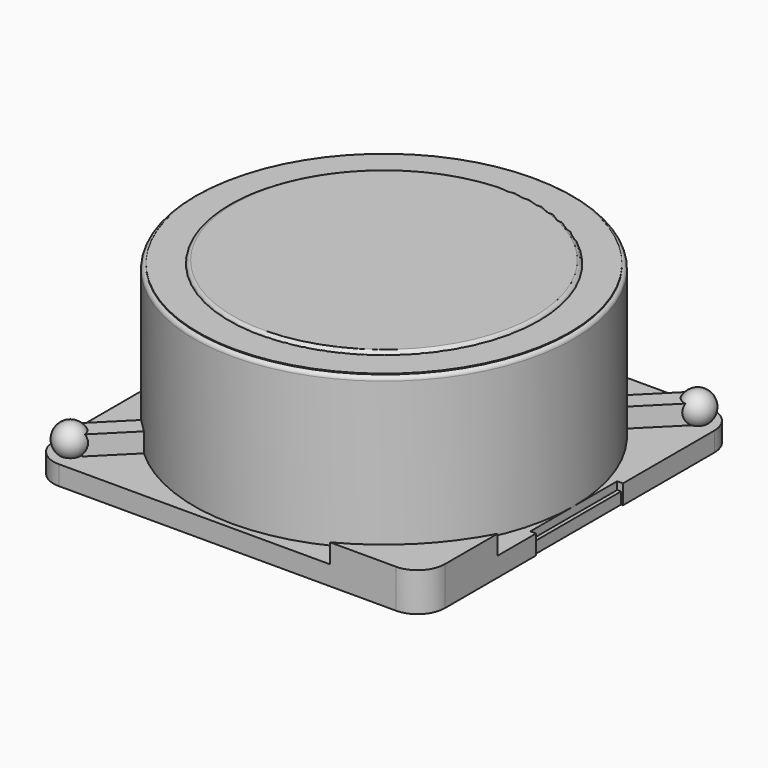
from build123d import *

# Parameters (mm, degrees)
BOX003_W               = 12.5
BOX003_H               = 0.5
BOX003_DEPTH           = 0.5
BOX003_PLACEMENT_ANGLE = 45
BOX005_W               = 0.9
BOX005_H               = 2.8
BOX005_DEPTH           = 0.3
BOX007_W               = 0.9
BOX007_H               = 2.8
BOX007_DEPTH           = 0.3
CYLINDER_R             = 4.9
CYLINDER_DEPTH         = 4.4
FILLET_R               = 0.1
CYLINDER001_R          = 4
CYLINDER001_DEPTH      = 4.5
FILLET001_R            = 0.1
CYLINDER004_R          = 4.8
CYLINDER004_DEPTH      = 0.3
BOX002_W               = 23
BOX002_H               = 6
BOX002_DEPTH           = 2
BOX002_PLACEMENT_ANGLE = 45
BOX006_W               = 0.2
BOX006_H               = 2.8
BOX006_DEPTH           = 1
BOX004_W               = 0.2
BOX004_H               = 2.8
BOX004_DEPTH           = 1
BOX001_W               = 15
BOX001_H               = 10
BOX001_DEPTH           = 5
BOX001_PLACEMENT_ANGLE = 45
CYLINDER003_R          = 5
CYLINDER003_DEPTH      = 2.4
BOX_W                  = 15
BOX_H                  = 7
BOX_DEPTH              = 5
BOX_PLACEMENT_ANGLE    = 45
CYLINDER002_R          = 5.7
CYLINDER002_DEPTH      = 2.4
PAD_DEPTH              = 1


with BuildPart() as obj1:
    # Sphere → Sphere (revolve)
    with BuildSketch(Plane(origin=(4.5, 4.5, 0.8), x_dir=(1, 0, 0), z_dir=(0, -1, 0))):
        with BuildLine():
            ThreePointArc((0, -0.4), (0.4, 0), (0, 0.4))
            Line((0, 0.4), (0, -0.4))
        make_face()
    revolve(axis=Axis((4.5, 4.5, 0.8), (0, 0, 1)))


with BuildPart() as obj2:
    # Sphere001 → Sphere001 (revolve)
    with BuildSketch(Plane(origin=(-4.5, -4.5, 0.8), x_dir=(1, 0, 0), z_dir=(0, -1, 0))):
        with BuildLine():
            ThreePointArc((0, -0.4), (0.4, 0), (0, 0.4))
            Line((0, 0.4), (0, -0.4))
        make_face()
    revolve(axis=Axis((-4.5, -4.5, 0.8), (0, 0, 1)))


with BuildPart() as kub003:
    # Box003 → Box003 (new body)
    with BuildSketch(Plane.XY):
        with Locations((6.25, 0.25)):
            Rectangle(BOX003_W, BOX003_H)
    extrude(amount=BOX003_DEPTH)


with BuildPart() as kub003_1:
    # Box003 placement: moved
    add(kub003.part.moved(Location((-4.2, -4.5, 0.5))).rotate(Axis((-4.2, -4.5, 0.5), (0, 0, 1)), BOX003_PLACEMENT_ANGLE))


with BuildPart() as kub005:
    # Box005 → Box005 (new body)
    with BuildSketch(Plane(origin=(4.1, -1.4, 0), x_dir=(1, 0, 0), z_dir=(0, 0, 1))):
        with Locations((0.45, 1.4)):
            Rectangle(BOX005_W, BOX005_H)
    extrude(amount=BOX005_DEPTH)


with BuildPart() as kub007:
    # Box007 → Box007 (new body)
    with BuildSketch(Plane(origin=(-4.95, -1.4, 0), x_dir=(1, 0, 0), z_dir=(0, 0, 1))):
        with Locations((0.45, 1.4)):
            Rectangle(BOX007_W, BOX007_H)
    extrude(amount=BOX007_DEPTH)


with BuildPart() as fillet_body:
    # Cylinder → Cylinder (new body)
    with BuildSketch(Plane.XY):
        Circle(CYLINDER_R)
    extrude(amount=CYLINDER_DEPTH)

    # Fillet
    fillet_edges = [fillet_body.edges().sort_by_distance(p)[0] for p in [
        (-4.9, 0, 4.4),
    ]]
    fillet(fillet_edges, radius=FILLET_R)


with BuildPart() as fillet001:
    # Cylinder001 → Cylinder001 (new body)
    with BuildSketch(Plane.XY):
        Circle(CYLINDER001_R)
    extrude(amount=CYLINDER001_DEPTH)

    # Fillet001
    fillet001_edges = [fillet001.edges().sort_by_distance(p)[0] for p in [
        (-4, 0, 4.5),
    ]]
    fillet(fillet001_edges, radius=FILLET001_R)


with BuildPart() as cylinder004:
    # Cylinder004 → Cylinder004 (new body)
    with BuildSketch(Plane.XY.offset(4.12)):
        Circle(CYLINDER004_R)
    extrude(amount=CYLINDER004_DEPTH)


with BuildPart() as kub002:
    # Box002 → Box002 (new body)
    with BuildSketch(Plane.XY):
        with Locations((11.5, 3)):
            Rectangle(BOX002_W, BOX002_H)
    extrude(amount=BOX002_DEPTH)


with BuildPart() as kub002_1:
    # Box002 placement: moved
    add(kub002.part.moved(Location((-5, -9, 0.5))).rotate(Axis((-5, -9, 0.5), (0, 0, 1)), BOX002_PLACEMENT_ANGLE))


with BuildPart() as kub006:
    # Box006 → Box006 (new body)
    with BuildSketch(Plane(origin=(-5.1, -1.4, 0), x_dir=(1, 0, 0), z_dir=(0, 0, 1))):
        with Locations((0.1, 1.4)):
            Rectangle(BOX006_W, BOX006_H)
    extrude(amount=BOX006_DEPTH)


with BuildPart() as kub004:
    # Box004 → Box004 (new body)
    with BuildSketch(Plane(origin=(4.9, -1.4, 0), x_dir=(1, 0, 0), z_dir=(0, 0, 1))):
        with Locations((0.1, 1.4)):
            Rectangle(BOX004_W, BOX004_H)
    extrude(amount=BOX004_DEPTH)


with BuildPart() as kub001:
    # Box001 → Box001 (new body)
    with BuildSketch(Plane.XY):
        with Locations((7.5, 5)):
            Rectangle(BOX001_W, BOX001_H)
    extrude(amount=BOX001_DEPTH)


with BuildPart() as kub001_1:
    # Box001 placement: moved
    add(kub001.part.moved(Location((1.5, -10.5, 0))).rotate(Axis((1.5, -10.5, 0), (0, 0, 1)), BOX001_PLACEMENT_ANGLE))


with BuildPart() as cut001:
    # Cylinder003 → Cylinder003 (new body)
    with BuildSketch(Plane(origin=(-0.5, 0.5, 0.5), x_dir=(1, 0, 0), z_dir=(0, 0, 1))):
        Circle(CYLINDER003_R)
    extrude(amount=CYLINDER003_DEPTH)

    # Cut001: cut Kub001
    add(kub001_1.part, mode=Mode.SUBTRACT)


with BuildPart() as kub:
    # Box → Box (new body)
    with BuildSketch(Plane.XY):
        with Locations((7.5, 3.5)):
            Rectangle(BOX_W, BOX_H)
    extrude(amount=BOX_DEPTH)


with BuildPart() as kub_1:
    # Box placement: moved
    add(kub.part.moved(Location((-6, -2, 0))).rotate(Axis((-6, -2, 0), (0, 0, 1)), BOX_PLACEMENT_ANGLE))


with BuildPart() as cut:
    # Cylinder002 → Cylinder002 (new body)
    with BuildSketch(Plane.XY.offset(0.5)):
        Circle(CYLINDER002_R)
    extrude(amount=CYLINDER002_DEPTH)

    # Cut: cut Kub
    add(kub_1.part, mode=Mode.SUBTRACT)


with BuildPart() as cut006:
    # Sketch → Pad (new body)
    with BuildSketch(Plane.XY):
        with BuildLine():
            Line((-5.05, -4.35), (-5.05, 4.15))
            Line((-5.05, 4.15), (-4.15, 4.15))
            Line((-4.15, 4.15), (-4.15, 5.05))
            Line((-4.15, 5.05), (4.35, 5.05))
            ThreePointArc((5.05, 4.35), (4.844975, 4.844975), (4.35, 5.05))
            Line((5.05, -4.35), (5.05, 4.35))
            ThreePointArc((4.35, -5.05), (4.844975, -4.844975), (5.05, -4.35))
            Line((-4.35, -5.05), (4.35, -5.05))
            ThreePointArc((-5.05, -4.35), (-4.844975, -4.844975), (-4.35, -5.05))
        make_face()
    extrude(amount=PAD_DEPTH)

    # Cut002: cut Cut
    add(cut.part, mode=Mode.SUBTRACT)

    # Cut003: cut Cut001
    add(cut001.part, mode=Mode.SUBTRACT)

    # Cut004: cut Kub004
    add(kub004.part, mode=Mode.SUBTRACT)

    # Cut005: cut Kub006
    add(kub006.part, mode=Mode.SUBTRACT)

    # Cut006: cut Kub002
    add(kub002_1.part, mode=Mode.SUBTRACT)


solid = Compound([obj1.part, obj2.part, kub003_1.part, kub005.part, kub007.part, fillet_body.part, fillet001.part, cylinder004.part, cut006.part])
